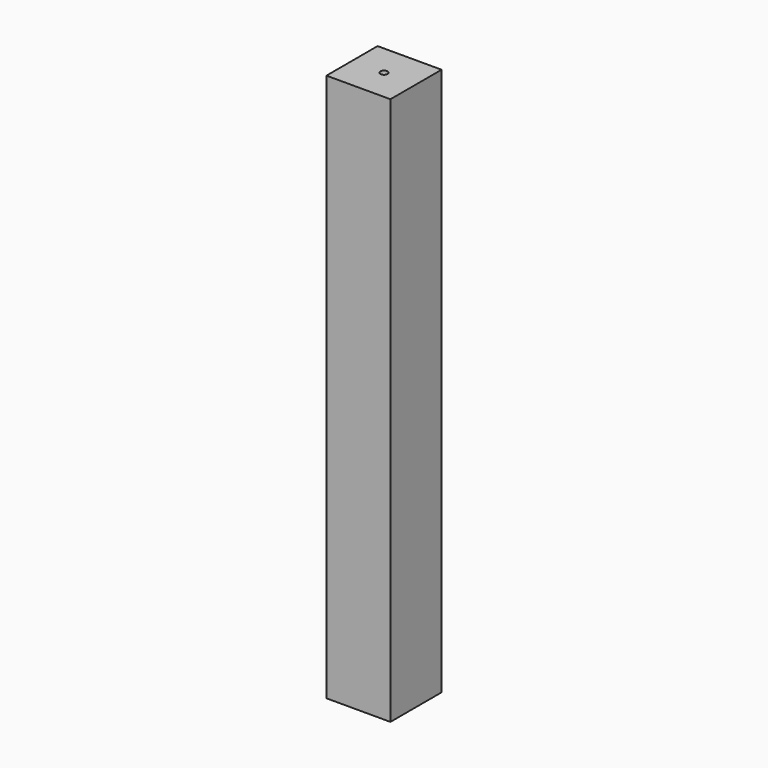
from build123d import *

# Parameters (mm, degrees)
F0_W     = 88.9
F0_H     = 88.9
F1_DEPTH = 762
F2_R     = 5.08
F3_DEPTH = 50.8
F4_R     = 5.08
F5_DEPTH = 41.275


with BuildPart() as f1:
    # F0 (on Top) → F1 (new body)
    with BuildSketch(Plane.XY):
        with Locations((-44.45, 44.45)):
            Rectangle(F0_W, F0_H)
    extrude(amount=F1_DEPTH)

    # F2 (on face) → F3 (cut)
    with BuildSketch(Plane.XY.offset(762)):
        with Locations((-44.45, 44.45)):
            Circle(F2_R)
    extrude(amount=-F3_DEPTH, mode=Mode.SUBTRACT)

    # F4 (on face) → F5 (cut)
    with BuildSketch(Plane(origin=(0, 0, 0), x_dir=(1, 0, 0), z_dir=(0, 0, -1))):
        with Locations((-44.45, -44.45)):
            Circle(F4_R)
    extrude(amount=-F5_DEPTH, mode=Mode.SUBTRACT)


solid = f1.part
